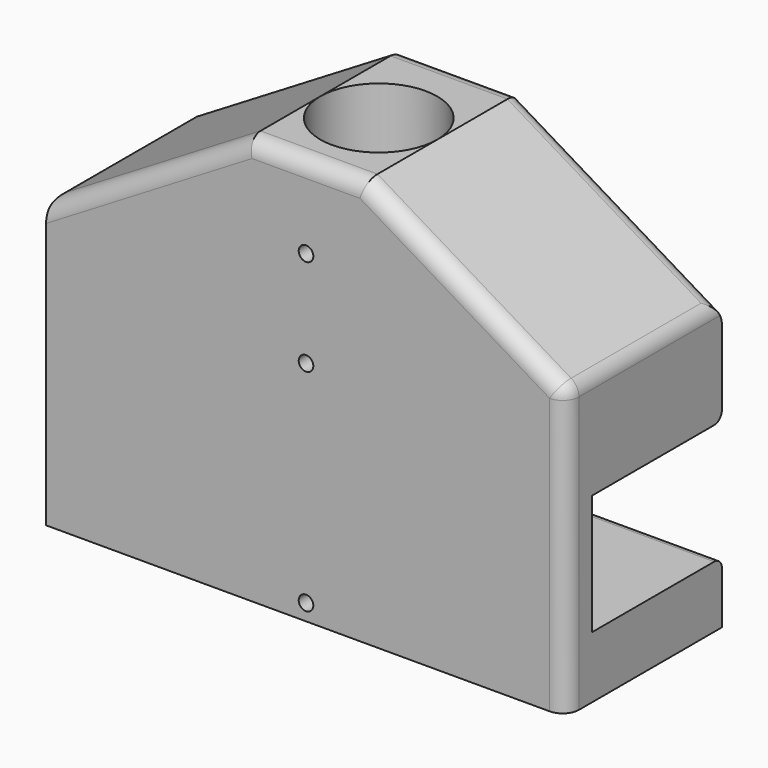
from build123d import *

# Parameters (mm, degrees)
F1_DEPTH = 60
F3_W     = 50
F3_H     = 37
F4_DEPTH = 160
F5_DEPTH = 65
F6_R     = 3
F7_R     = 5
F8_R     = 2.25
F9_DEPTH = 60.001
F10_SIZE = 2


with BuildPart() as f1:
    # F0 (on Front) → F1 (new body)
    with BuildSketch(Plane.XZ):
        Polygon((-80, 87.622), (-80, 0), (80, 0), (80, 87.622), (18, 125), (-18, 125), align=None)
    extrude(amount=-F1_DEPTH)

    # F3 (on face) → F4 (cut, through all)
    with BuildSketch(Plane(origin=(-80, 0, 0), x_dir=(0, -1, 0), z_dir=(-1, 0, 0))):
        with Locations((-35, 37.5)):
            Rectangle(F3_W, F3_H)
    extrude(amount=-F4_DEPTH, mode=Mode.SUBTRACT)

    # F2 (on face) → F5 (cut)
    with BuildSketch(Plane.XY.offset(125)):
        with BuildLine():
            ThreePointArc((-18, 28), (0, 10), (18, 28))
            ThreePointArc((18, 28), (0, 46), (-18, 28))
        make_face()
    extrude(amount=-F5_DEPTH, mode=Mode.SUBTRACT)

    # F6
    f6_edges = [f1.edges().sort_by_distance(p)[0] for p in [
        (0, 60, 56),
        (0, 60, 19),
    ]]
    fillet(f6_edges, radius=F6_R)

    # F7
    f7_edges = [f1.edges().sort_by_distance(p)[0] for p in [
        (0, 60, 125),
        (-49, 60, 106.311),
        (49, 60, 106.311),
        (-80, 30, 87.622),
        (-49, 0, 106.311),
        (49, 0, 106.311),
        (80, 30, 87.622),
        (0, 0, 125),
        (80, 0, 43.811),
    ]]
    fillet(f7_edges, radius=F7_R)

    # F8 (on face) → F9 (cut, through all)
    with BuildSketch(Plane.XZ):
        with Locations((0, 99.65)):
            Circle(F8_R)
        with Locations((0, 69.9)):
            Circle(F8_R)
        with Locations((0, 5)):
            Circle(F8_R)
    extrude(amount=-F9_DEPTH, mode=Mode.SUBTRACT)

    # F10
    f10_edges = [f1.edges().sort_by_distance(p)[0] for p in [
        (-2.25, 60, 99.65),
        (-2.25, 60, 69.9),
        (-2.25, 60, 5),
    ]]
    chamfer(f10_edges, length=F10_SIZE)


solid = f1.part
